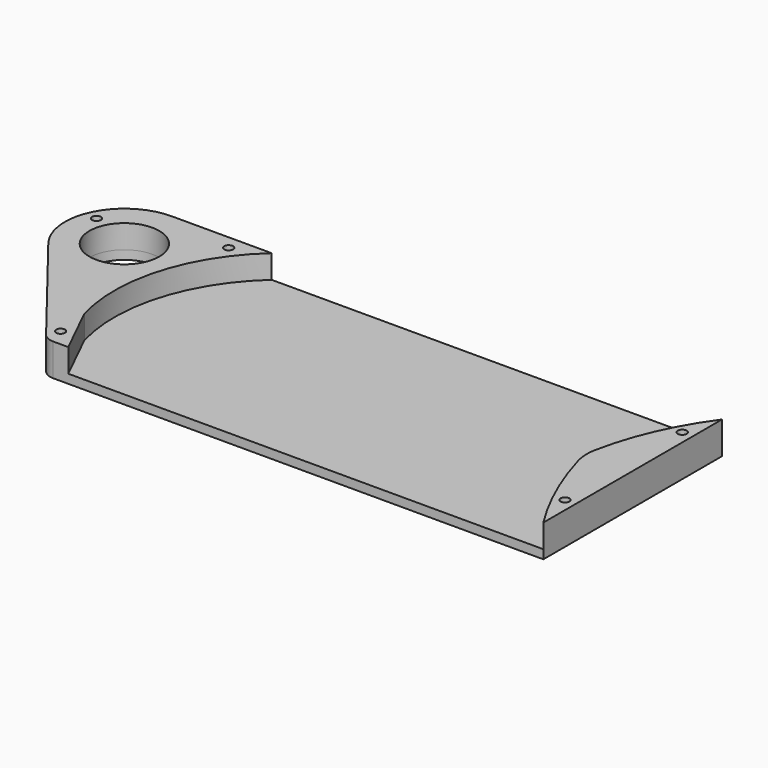
from build123d import *

# Parameters (mm, degrees)
F2_DEPTH  = 3
F0_R      = 11.75
F3_DEPTH  = 7.9
F4_DEPTH  = 7.9
F5_DEPTH  = 3
F6_R      = 5
F6_2_R    = 5
F9_D      = 3
F10_DEPTH = 4
F11_DEPTH = 4


with BuildPart() as f2:
    # F0 (on Top) → F2 (new body)
    with BuildSketch(Plane.XY):
        with BuildLine():
            ThreePointArc((70.8448413014, 3.4252903424), (76.5230858808, 21.4851908555), (86, 37.8739237785))
            Line((86, 37.8739237785), (-65.6162592679, 37.8739237785))
            ThreePointArc((-65.6162592679, 37.8739237785), (-82.3199649398, 11.4193737584), (-82.519158721, -19.8666825891))
            Line((-82.519158721, -19.8666825891), (-73.9695476283, -37.2867286205))
            Line((-73.9695476283, -37.2867286205), (86, -37.2867286205))
            ThreePointArc((86, -37.2867286205), (77.4631412951, -21.4263167299), (71.2877699379, -4.5060504646))
            ThreePointArc((71.2877699379, -4.5060504646), (70.5487291916, -0.5692843065), (70.8448413014, 3.4252903424))
        make_face()
    extrude(amount=-F2_DEPTH)


with BuildPart() as f3:
    # F0 (on Top) → F3 (new body)
    with BuildSketch(Plane.XY):
        with BuildLine():
            ThreePointArc((-82.519158721, -19.8666825891), (-82.3199649398, 11.4193737584), (-65.6162592679, 37.8739237785))
            Line((-65.6162592679, 37.8739237785), (-99.2088739193, 37.8739237785))
            ThreePointArc((-99.2088739193, 37.8739237785), (-117.1879721114, 26.6373104948), (-114.9666717313, 5.5523567478))
            Line((-114.9666717313, 5.5523567478), (-81.4747432756, -37.2867286205))
            Line((-81.4747432756, -37.2867286205), (-73.9695476283, -37.2867286205))
            Line((-73.9695476283, -37.2867286205), (-82.519158721, -19.8666825891))
        make_face()
        with Locations((-99.2088739193, 17.8719250206)):
            Circle(F0_R, mode=Mode.SUBTRACT)
    extrude(amount=F3_DEPTH)


with BuildPart() as f4:
    # F0 (on Top) → F4 (new body)
    with BuildSketch(Plane.XY):
        with BuildLine():
            Line((86, -37.2867286205), (86, 37.8739237785))
            ThreePointArc((86, 37.8739237785), (76.5230858808, 21.4851908555), (70.8448413014, 3.4252903424))
            ThreePointArc((70.8448413014, 3.4252903424), (70.5487291916, -0.5692843065), (71.2877699379, -4.5060504646))
            ThreePointArc((71.2877699379, -4.5060504646), (77.4631412951, -21.4263167299), (86, -37.2867286205))
        make_face()
    extrude(amount=F4_DEPTH)


with BuildPart() as f5:
    # F5 (new): a face of the model
    f5_faces = [f3.part.faces().sort_by_distance(p)[0] for p in [
        (-83.2059045041, 11.6787223922, 0),
    ]]
    extrude(f5_faces, amount=F5_DEPTH)

    # F6#2
    f6_2_edges = [f5.edges().sort_by_distance(p)[0] for p in [
        (-81.474743, -37.286729, -1.5),
    ]]
    fillet(f6_2_edges, radius=F6_2_R)


with BuildPart() as f5b:
    # F5#2 (new): a face of the model
    f5_2_faces = [f4.part.faces().sort_by_distance(p)[0] for p in [
        (80.189714527, 0.7740894227, 0),
    ]]
    extrude(f5_2_faces, amount=F5_DEPTH)


with BuildPart() as f3_1:
    add(f3.part)

    # F6
    f6_edges = [f3_1.edges().sort_by_distance(p)[0] for p in [
        (-81.474743, -37.286729, 3.95),
    ]]
    fillet(f6_edges, radius=F6_R)


with BuildPart() as f2_1:
    add(f2.part)

    # F7: union F3, F4, F5, F5b
    add(f3_1.part)
    add(f4.part)
    add(f5.part)
    add(f5b.part)

    # F9 (through all)
    with Locations(Plane(origin=(0, 0, -3), x_dir=(1, 0, 0), z_dir=(0, 0, -1))):
        with Locations((-81.1894536018, 31.5095931292), (-113.9387488365, -24.5540793985), (-76.3550326228, -33.2092493773), (82.3921039701, 23.663148284), (82.3921039701, -25.700064376)):
            Hole(F9_D / 2)

    # F8 (on face) → F10 (cut)
    with BuildSketch(Plane(origin=(0, 0, -3), x_dir=(1, 0, 0), z_dir=(0, 0, -1))):
        Polygon((-74.5737203647, -36.1802637897), (-72.8914025376, -33.1520949158), (-74.6727147957, -30.1810805034), (-78.136344881, -30.2382349648), (-79.8186627081, -33.2664038387), (-78.0373504499, -36.2374182511), align=None)
        Polygon((85.3921039701, 21.9310974764), (85.3921039701, 25.3951990915), (82.3921039701, 27.1272498991), (79.3921039701, 25.3951990915), (79.3921039701, 21.9310974764), (82.3921039701, 20.1990466688), align=None)
        Polygon((85.3921039701, -27.4321151836), (85.3921039701, -23.9680135684), (82.3921039701, -22.2359627609), (79.3921039701, -23.9680135684), (79.3921039701, -27.4321151836), (82.3921039701, -29.1641659911), align=None)
        Polygon((-79.8767595984, 28.3038429122), (-77.7568454741, 31.043544375), (-79.0695394775, 34.249294592), (-82.5021476052, 34.7153433461), (-84.6220617296, 31.9756418833), (-83.3093677262, 28.7698916664), align=None)
        Polygon((-110.4805015339, -24.7553890954), (-112.0352858737, -21.6598042304), (-115.4935331763, -21.4584945334), (-117.3969961391, -24.3527697016), (-115.8422117994, -27.4483545667), (-112.3839644968, -27.6496642636), align=None)
    extrude(amount=-F10_DEPTH, mode=Mode.SUBTRACT)

    # F8 (on face) → F11 (cut)
    with BuildSketch(Plane(origin=(0, 0, -3), x_dir=(1, 0, 0), z_dir=(0, 0, -1))):
        Polygon((-74.5737203647, -36.1802637897), (-72.8914025376, -33.1520949158), (-74.6727147957, -30.1810805034), (-78.136344881, -30.2382349648), (-79.8186627081, -33.2664038387), (-78.0373504499, -36.2374182511), align=None)
        Polygon((85.3921039701, 21.9310974764), (85.3921039701, 25.3951990915), (82.3921039701, 27.1272498991), (79.3921039701, 25.3951990915), (79.3921039701, 21.9310974764), (82.3921039701, 20.1990466688), align=None)
        Polygon((85.3921039701, -27.4321151836), (85.3921039701, -23.9680135684), (82.3921039701, -22.2359627609), (79.3921039701, -23.9680135684), (79.3921039701, -27.4321151836), (82.3921039701, -29.1641659911), align=None)
        Polygon((-79.8767595984, 28.3038429122), (-77.7568454741, 31.043544375), (-79.0695394775, 34.249294592), (-82.5021476052, 34.7153433461), (-84.6220617296, 31.9756418833), (-83.3093677262, 28.7698916664), align=None)
        Polygon((-110.4805015339, -24.7553890954), (-112.0352858737, -21.6598042304), (-115.4935331763, -21.4584945334), (-117.3969961391, -24.3527697016), (-115.8422117994, -27.4483545667), (-112.3839644968, -27.6496642636), align=None)
    extrude(amount=-F11_DEPTH, mode=Mode.SUBTRACT)


solid = f2_1.part
